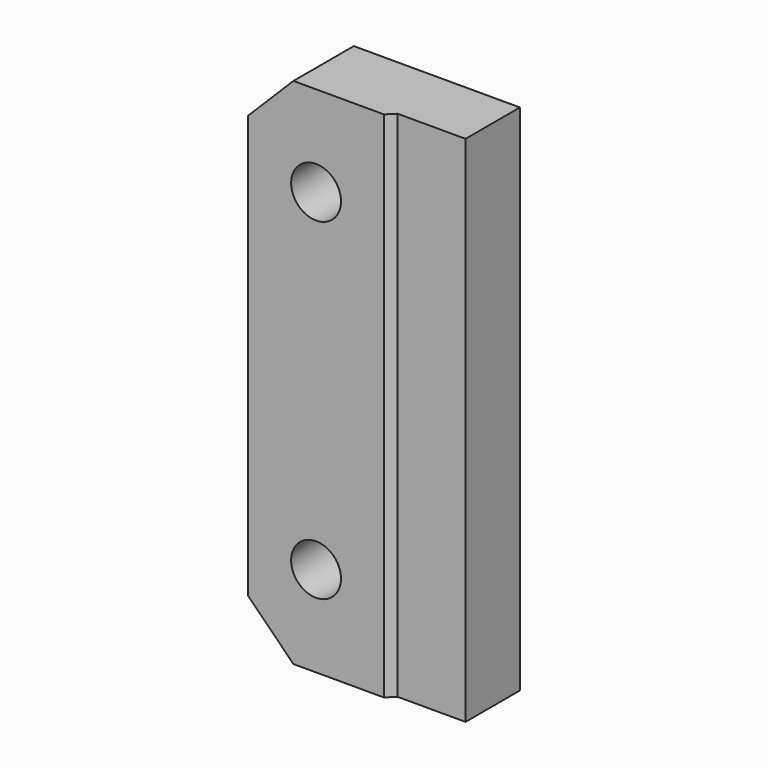
from build123d import *

# Parameters (mm, degrees)
CYLINDER028_R     = 3
CYLINDER028_DEPTH = 10
CYLINDER029_R     = 3
CYLINDER029_DEPTH = 10
CYLINDER011_R     = 1.65
CYLINDER011_DEPTH = 10
CYLINDER012_R     = 1.65
CYLINDER012_DEPTH = 10
BOX007_W          = 14
BOX007_H          = 5
BOX007_DEPTH      = 34
CHAMFER004_SIZE   = 0.5
BOX006_W          = 14
BOX006_H          = 5
BOX006_DEPTH      = 34
CHAMFER005_SIZE   = 3


with BuildPart() as cylinder028:
    # Cylinder028 → Cylinder028 (new body)
    with BuildSketch(Plane(origin=(22.5, 2, 10), x_dir=(1, 0, 0), z_dir=(0, -1, 0))):
        Circle(CYLINDER028_R)
    extrude(amount=CYLINDER028_DEPTH)


with BuildPart() as fusion041004010008013:
    # Cylinder029 → Cylinder029 (new body)
    with BuildSketch(Plane(origin=(22.5, 2, 32), x_dir=(1, 0, 0), z_dir=(0, -1, 0))):
        Circle(CYLINDER029_R)
    extrude(amount=CYLINDER029_DEPTH)

    # Fusion041004010008013: union Cylinder028
    add(cylinder028.part)


with BuildPart() as fusion041004010008013_1:
    # Fusion041004010008013 placement: moved
    add(fusion041004010008013.part.moved(Location((0, 6, 0))))


with BuildPart() as cylinder011:
    # Cylinder011 → Cylinder011 (new body)
    with BuildSketch(Plane(origin=(22.5, 2, 10), x_dir=(1, 0, 0), z_dir=(0, -1, 0))):
        Circle(CYLINDER011_R)
    extrude(amount=CYLINDER011_DEPTH)


with BuildPart() as fusion041004010008015:
    # Cylinder012 → Cylinder012 (new body)
    with BuildSketch(Plane(origin=(22.5, 2, 32), x_dir=(1, 0, 0), z_dir=(0, -1, 0))):
        Circle(CYLINDER012_R)
    extrude(amount=CYLINDER012_DEPTH)

    # Fusion041004010008014: union Cylinder011
    add(cylinder011.part)

    # Fusion041004010008015: union Fusion041004010008013
    add(fusion041004010008013_1.part)


with BuildPart() as chamfer004:
    # Box007 → Box007 (new body)
    with BuildSketch(Plane(origin=(27, -10.5, 4), x_dir=(1, 0, 0), z_dir=(0, 0, 1))):
        with Locations((7, 2.5)):
            Rectangle(BOX007_W, BOX007_H)
    extrude(amount=BOX007_DEPTH)

    # Chamfer004
    chamfer004_edges = [chamfer004.edges().sort_by_distance(p)[0] for p in [
        (27, -5.5, 21),
    ]]
    chamfer(chamfer004_edges, length=CHAMFER004_SIZE)


with BuildPart() as chamfer005:
    # Box006 → Box006 (new body)
    with BuildSketch(Plane(origin=(18, -6, 4), x_dir=(1, 0, 0), z_dir=(0, 0, 1))):
        with Locations((7, 2.5)):
            Rectangle(BOX006_W, BOX006_H)
    extrude(amount=BOX006_DEPTH)

    # Cut001002003017: cut Chamfer004
    add(chamfer004.part, mode=Mode.SUBTRACT)

    # Cut001002003018: cut Fusion041004010008015
    add(fusion041004010008015.part, mode=Mode.SUBTRACT)

    # Chamfer005
    chamfer005_edges = [chamfer005.edges().sort_by_distance(p)[0] for p in [
        (18, -3.5, 38),
        (18, -3.5, 4),
    ]]
    chamfer(chamfer005_edges, length=CHAMFER005_SIZE)


solid = chamfer005.part
